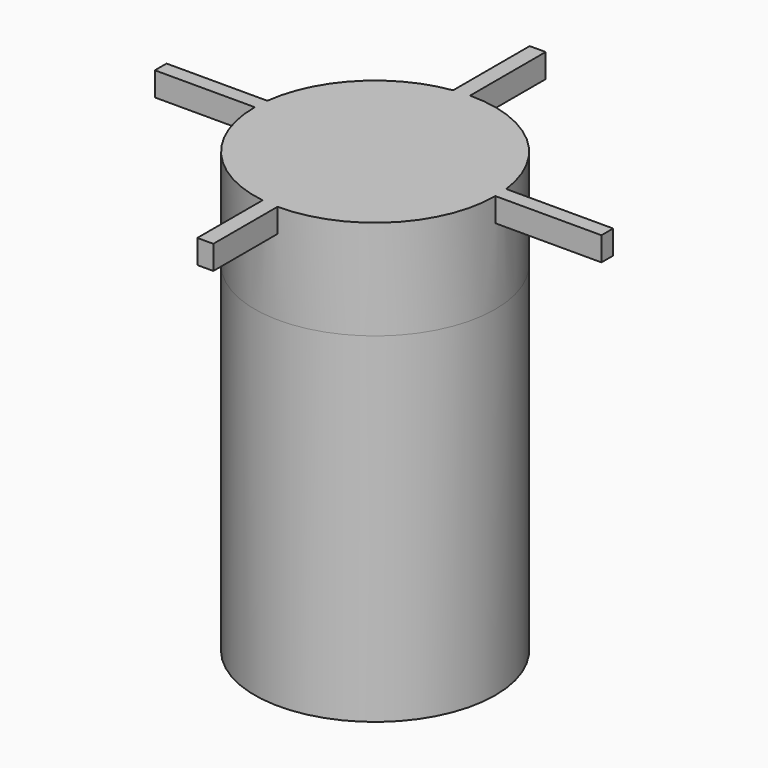
from build123d import *

# Parameters (mm, degrees)
F0_W     = 3.9692334831
F0_H     = 103.9218027145
F2_DEPTH = 31.75
F3_W     = 64.669739455
F3_H     = 4.6622371301
F3_W_2   = 5.0883553922
F3_H_2   = 63.7673670426
F3_W_3   = 72.5153312087
F3_H_3   = 63.9177635312
F4_DEPTH = 7.62


with BuildPart() as f1:
    # F0 (on Front) → F1 (revolve)
    with BuildSketch(Plane.XZ):
        Polygon((10.5738220736, 29.8581575043), (-27.7522327378, 29.8581575043), (-27.7522327378, 25.5280886777), (6.6045885906, 25.5280886777), (10.5738220736, 25.5280886777), align=None)
        with Locations((8.5892053321, -26.4328126796)):
            Rectangle(F0_W, F0_H)
    revolve(axis=Axis((-27.7522327378, 0, 22.6518814452), (0, 0, 1)))

    # F2 (add): a face of the model
    f2_faces = [f1.faces().sort_by_distance(p)[0] for p in [
        (-27.7522327378, 0, 29.8581575043),
    ]]
    extrude(f2_faces, amount=F2_DEPTH)

    # F3 (on face) → F4 (join)
    with BuildSketch(Plane.XY.offset(61.6081575043)):
        with Locations((-65.5721072108, 2.3311185651)):
            Rectangle(F3_W, F3_H)
        with Locations((-30.6930597872, 36.5459206514)):
            Rectangle(F3_W_2, F3_H_2)
        with Locations((-30.6930597872, 2.3311185651)):
            Rectangle(F3_W_2, F3_H)
        with Locations((8.1087835133, 2.3311185651)):
            Rectangle(F3_W_3, F3_H)
        with Locations((-30.6930597872, -31.9588817656)):
            Rectangle(F3_W_2, F3_H_3)
    extrude(amount=-F4_DEPTH)


solid = f1.part
